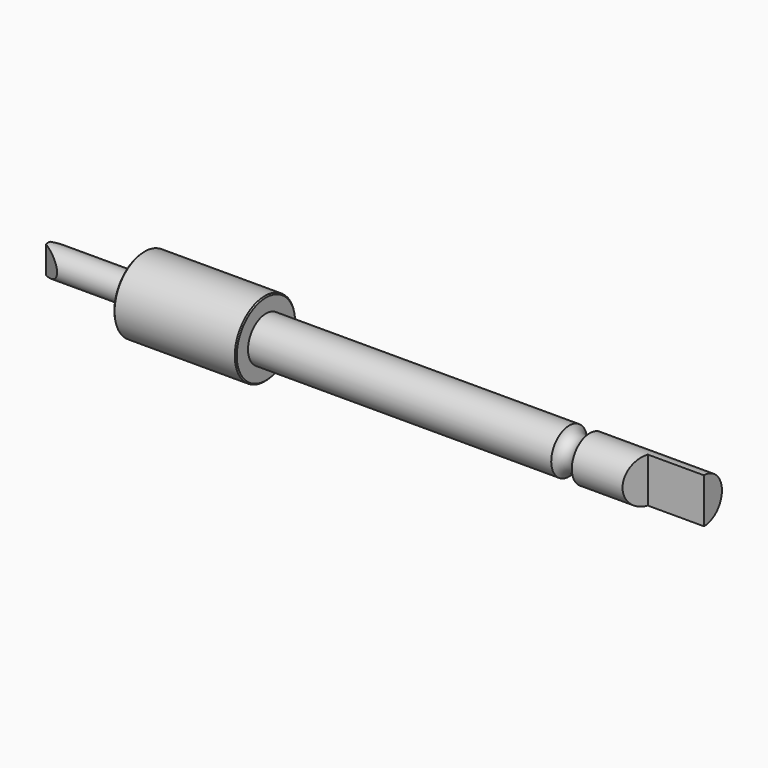
from build123d import *

# Parameters (mm, degrees)
F3_DEPTH = 12.5
F5_DEPTH = 12.5
F6_SIZE  = 0.1


with BuildPart() as f1:
    # F0 (on Front) → F1 (revolve)
    with BuildSketch(Plane.XZ):
        with BuildLine():
            Line((-30, 1.25), (-30, 0))
            Line((-30, 0), (28.4, 0))
            Line((28.4, 0), (28.4, 2))
            Line((28.4, 2), (18.23303, 2))
            ThreePointArc((18.23303, 2), (17.316515, 1.4), (16.4, 2))
            Line((16.4, 2), (-10.6, 2))
            Line((-10.6, 2), (-10.6, 3.35))
            Line((-10.6, 3.35), (-21.5, 3.35))
            Line((-21.5, 3.35), (-21.5, 1.25))
            Line((-21.5, 1.25), (-30, 1.25))
        make_face()
    revolve(axis=Axis((0, 0, 0), (1, 0, 0)))

    # F2 (on Top) → F3 (cut, symmetric)
    with BuildSketch(Plane.XY):
        Polygon((28.4, -2), (28.4, 0), (23.4, 0), (22.750161, -2), align=None)
    extrude(amount=F3_DEPTH, both=True, mode=Mode.SUBTRACT)

    # F4 (on Top) → F5 (cut, symmetric)
    with BuildSketch(Plane.XY):
        Polygon((-30, 1.25), (-30, 0.225), (-28.2, 1.25), align=None)
        Polygon((-28.2, -1.25), (-30, -0.225), (-30, -1.25), align=None)
    extrude(amount=F5_DEPTH, both=True, mode=Mode.SUBTRACT)

    # F6
    f6_edges = [f1.edges().sort_by_distance(p)[0] for p in [
        (-10.6, 0, -3.35),
        (-21.5, 0, -3.35),
    ]]
    chamfer(f6_edges, length=F6_SIZE)


solid = f1.part
